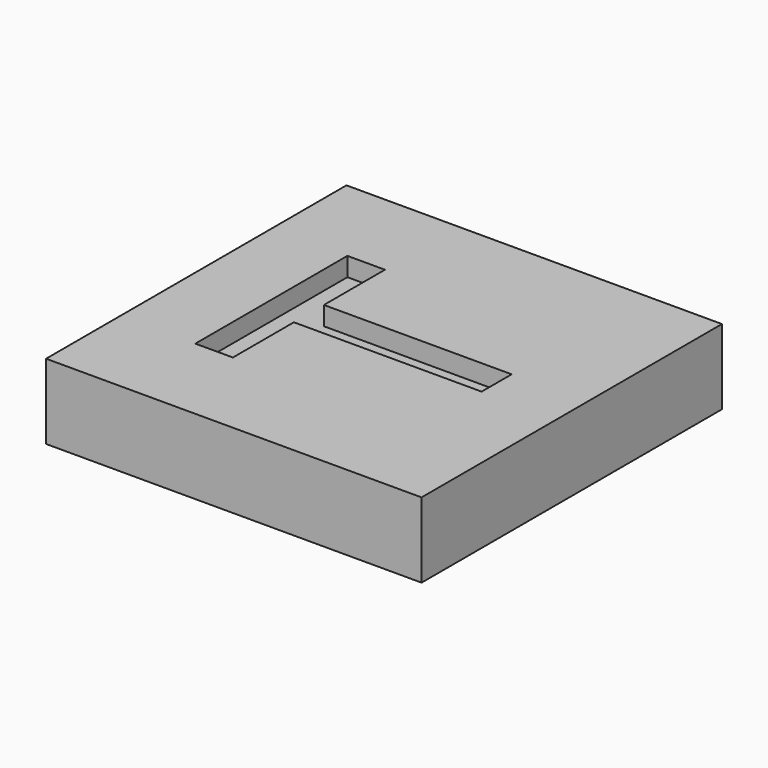
from build123d import *

# Parameters (mm, degrees)
SKETCH_W     = 1000
SKETCH_H     = 1000
PAD_DEPTH    = 200
POCKET_DEPTH = 50


with BuildPart() as part:
    # Sketch → Pad (new body)
    with BuildSketch(Plane.XY):
        Rectangle(SKETCH_W, SKETCH_H)
    extrude(amount=PAD_DEPTH)

    # Sketch001 → Pocket (cut)
    with BuildSketch(Plane.XY.offset(200)):
        Polygon((-300, 253.105738), (-300, -253.105738), (-200, -253.105738), (-200, -50), (300, -50), (300, 50), (-200, 50), (-200, 253.105738), align=None)
    extrude(amount=-POCKET_DEPTH, mode=Mode.SUBTRACT)


solid = part.part
